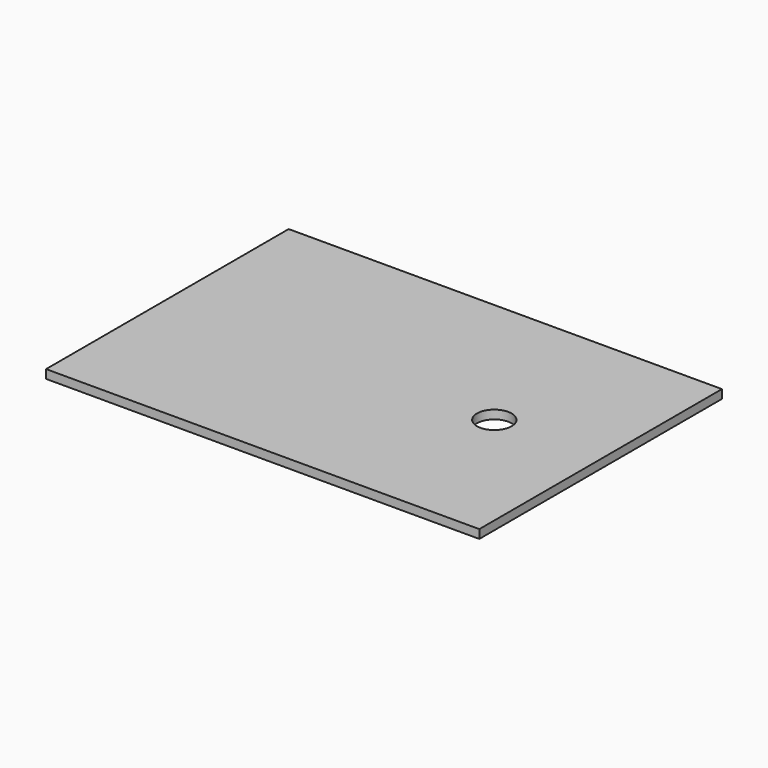
from build123d import *

# Parameters (mm, degrees)
F0_W     = 635
F0_H     = 444.5
F0_R     = 25.4
F1_DEPTH = 12.7
F2_DEPTH = 25.4


with BuildPart() as f1:
    # F0 (on Top) → F1 (new body)
    with BuildSketch(Plane.XY):
        Rectangle(F0_W, F0_H)
        with Locations((161.686882, 0)):
            Circle(F0_R, mode=Mode.SUBTRACT)
        with Locations((161.686882, 0)):
            Circle(F0_R)
    extrude(amount=F1_DEPTH)

    # F0 (on Top) → F2 (cut)
    with BuildSketch(Plane.XY):
        with Locations((161.686882, 0)):
            Circle(F0_R)
    extrude(amount=F2_DEPTH, mode=Mode.SUBTRACT)


solid = f1.part
